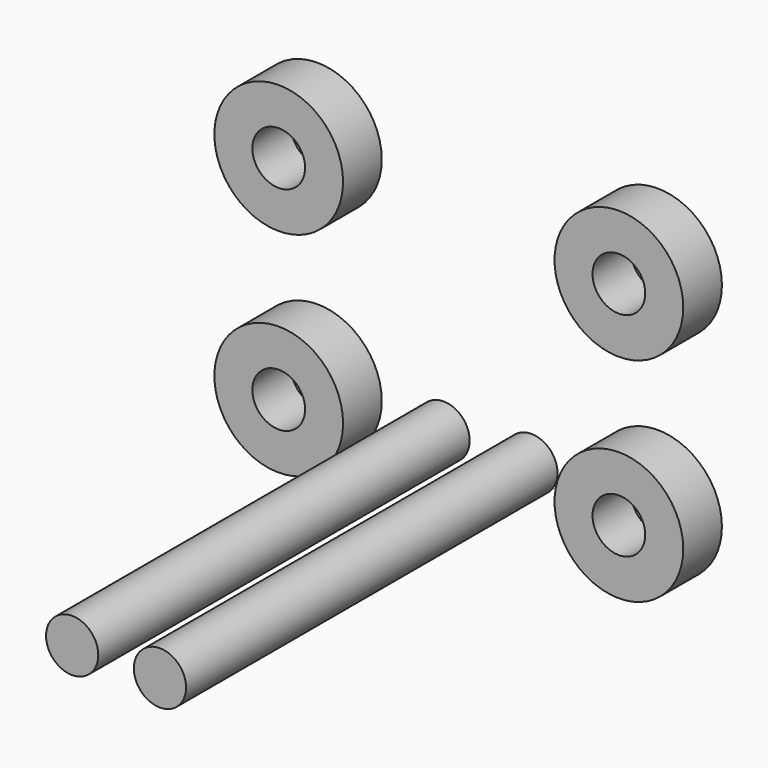
from build123d import *

# Parameters (mm, degrees)
F0_R     = 4.1148
F1_DEPTH = 73.152
F2_R     = 10.138519
F2_R_2   = 4.1529
F3_DEPTH = 7.62


with BuildPart() as f1:
    # F0 (on Front) → F1 (new body)
    with BuildSketch(Plane.XZ):
        with Locations((-6.918158, -17.746579)):
            Circle(F0_R)
        with Locations((6.918158, -17.746579)):
            Circle(F0_R)
    extrude(amount=F1_DEPTH)


with BuildPart() as f3:
    # F2 (on Front) → F3 (new body)
    with BuildSketch(Plane.XZ):
        with Locations((-26.79727, -16.748294)):
            Circle(F2_R)
        with Locations((-26.79727, -16.748294)):
            Circle(F2_R_2, mode=Mode.SUBTRACT)
        with Locations((26.79727, -16.748294)):
            Circle(F2_R)
        with Locations((26.79727, -16.748294)):
            Circle(F2_R_2, mode=Mode.SUBTRACT)
        with Locations((-26.79727, 16.748294)):
            Circle(F2_R)
        with Locations((-26.79727, 16.748294)):
            Circle(F2_R_2, mode=Mode.SUBTRACT)
        with Locations((26.79727, 16.748294)):
            Circle(F2_R)
        with Locations((26.79727, 16.748294)):
            Circle(F2_R_2, mode=Mode.SUBTRACT)
    extrude(amount=F3_DEPTH)


solid = Compound([f1.part, f3.part])
